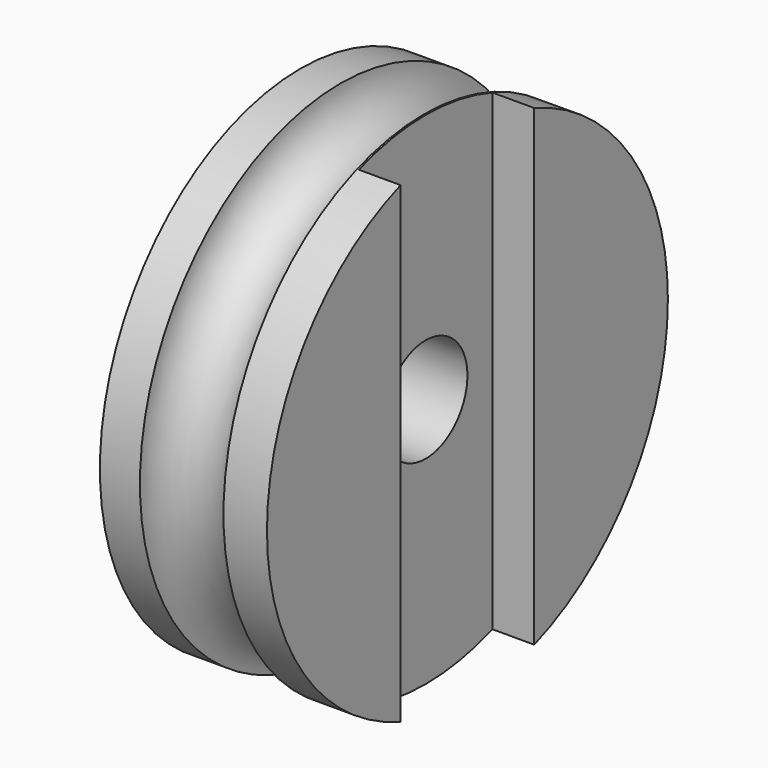
from build123d import *

# Parameters (mm, degrees)
F2_R     = 3.96875
F3_DEPTH = 3.175
F4_R     = 3.96875
F5_DEPTH = 12.701


with BuildPart() as f1:
    # F0 (on Front) → F1 (revolve)
    with BuildSketch(Plane.XZ):
        with BuildLine():
            Line((-6.218406, 19.05), (-6.218406, 0))
            Line((-6.218406, 0), (6.481594, 0))
            Line((6.481594, 0), (6.481594, 19.05))
            Line((6.481594, 19.05), (3.175, 19.05))
            ThreePointArc((3.175, 19.05), (0, 15.875), (-3.175, 19.05))
            Line((-3.175, 19.05), (-6.218406, 19.05))
        make_face()
    revolve(axis=Axis((0.131594, 0, 0), (1, 0, 0)))

    # F2 (on face) → F3 (cut)
    with BuildSketch(Plane.YZ.offset(6.481594)):
        with BuildLine():
            ThreePointArc((6.35, 17.960512), (0, 19.05), (-6.35, 17.960512))
            Line((-6.35, 17.960512), (-6.35, -17.960512))
            ThreePointArc((-6.35, -17.960512), (0, -19.05), (6.35, -17.960512))
            Line((6.35, -17.960512), (6.35, 17.960512))
        make_face()
        Circle(F2_R, mode=Mode.SUBTRACT)
    extrude(amount=-F3_DEPTH, mode=Mode.SUBTRACT)

    # F4 (on face) → F5 (cut, through all)
    with BuildSketch(Plane(origin=(-6.218406, 0, 0), x_dir=(0, -1, 0), z_dir=(-1, 0, 0))):
        Circle(F4_R)
    extrude(amount=-F5_DEPTH, mode=Mode.SUBTRACT)


solid = f1.part
